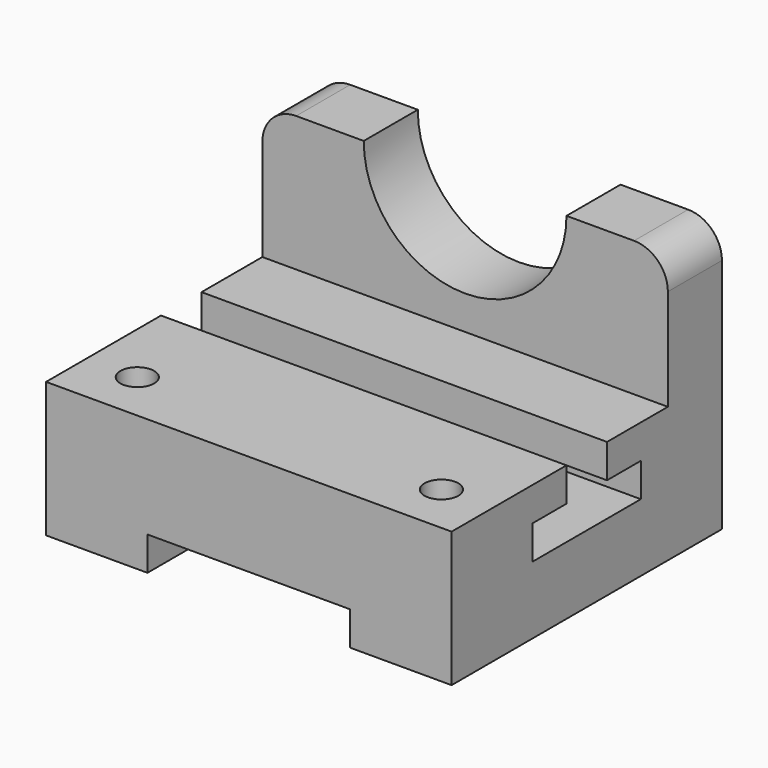
from build123d import *

# Parameters (mm, degrees)
F1_DEPTH  = 50.8
F2_R      = 6.35
F3_DEPTH  = 50.8
F5_DEPTH  = 152.4
F7_DEPTH  = 152.4
F9_DEPTH  = 25.4
F11_DEPTH = 25.4
F13_DEPTH = 25.4


with BuildPart() as f1:
    # F0 (on Front) → F1 (new body, symmetric)
    with BuildSketch(Plane.XZ):
        Polygon((-76.2, 50.8), (-76.2, 0), (-38.1, 0), (-38.1, 12.7), (0, 12.7), (38.1, 12.7), (38.1, 0), (76.2, 0), (76.2, 50.8), align=None)
    extrude(amount=F1_DEPTH, both=True)

    # F2 (on face) → F3 (cut)
    with BuildSketch(Plane.XY.offset(50.8)):
        with Locations((-57.15, -31.75)):
            Circle(F2_R)
        with Locations((57.15, -31.75)):
            Circle(F2_R)
    extrude(amount=-F3_DEPTH, mode=Mode.SUBTRACT)

    # F4 (on face) → F5 (cut)
    with BuildSketch(Plane.YZ.offset(76.2)):
        Polygon((-12.7, 38.1), (-12.7, 25.4), (38.1, 25.4), (38.1, 38.1), (22.225, 38.1), (22.225, 50.8), (3.175, 50.8), (3.175, 38.1), align=None)
    extrude(amount=-F5_DEPTH, mode=Mode.SUBTRACT)

    # F6 (on face) → F7 (join)
    with BuildSketch(Plane.YZ.offset(76.2)):
        Polygon((50.8, 101.6), (50.8, 50.8), (50.8, 0), (76.2, 0), (76.2, 101.6), align=None)
    extrude(amount=-F7_DEPTH)

    # F8 (on face) → F9 (cut)
    with BuildSketch(Plane(origin=(0, 76.2, 0), x_dir=(-1, 0, 0), z_dir=(0, 1, 0))):
        with BuildLine():
            Line((38.1, 101.6), (-38.1, 101.6))
            ThreePointArc((-38.1, 101.6), (0, 63.5), (38.1, 101.6))
        make_face()
    extrude(amount=-F9_DEPTH, mode=Mode.SUBTRACT)

    # F10 (on face) → F11 (cut)
    with BuildSketch(Plane(origin=(0, 76.2, 0), x_dir=(-1, 0, 0), z_dir=(0, 1, 0))):
        with BuildLine():
            ThreePointArc((63.5, 101.6), (72.480256, 97.880256), (76.2, 88.9))
            Line((76.2, 88.9), (76.2, 101.6))
            Line((76.2, 101.6), (63.5, 101.6))
        make_face()
    extrude(amount=-F11_DEPTH, mode=Mode.SUBTRACT)

    # F12 (on face) → F13 (cut)
    with BuildSketch(Plane(origin=(0, 76.2, 0), x_dir=(-1, 0, 0), z_dir=(0, 1, 0))):
        with BuildLine():
            ThreePointArc((-76.2, 88.9), (-72.480256, 97.880256), (-63.5, 101.6))
            Line((-63.5, 101.6), (-76.2, 101.6))
            Line((-76.2, 101.6), (-76.2, 88.9))
        make_face()
    extrude(amount=-F13_DEPTH, mode=Mode.SUBTRACT)


solid = f1.part
